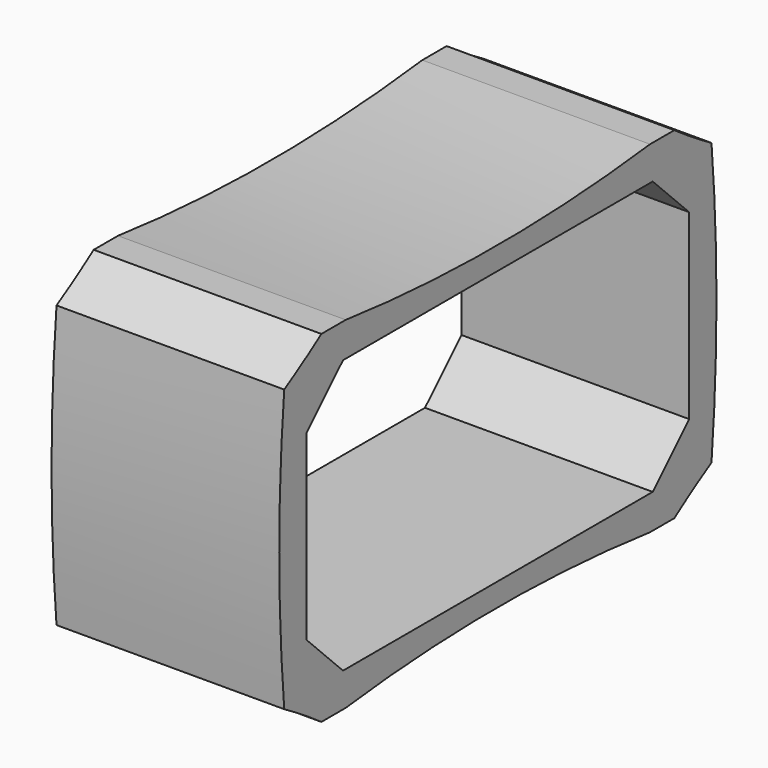
from build123d import *

# Parameters (mm, degrees)
BOX010_W          = 10
BOX010_H          = 21
BOX010_DEPTH      = 12
CHAMFER_SIZE      = 2
CYLINDER040_R     = 30
CYLINDER040_DEPTH = 10
CYLINDER039_R     = 30
CYLINDER039_DEPTH = 10
CYLINDER038_R     = 30
CYLINDER038_DEPTH = 10
CYLINDER036_R     = 30
CYLINDER036_DEPTH = 10
CYLINDER037_R     = 70
CYLINDER037_DEPTH = 10
CYLINDER035_R     = 70
CYLINDER035_DEPTH = 10
CYLINDER034_R     = 70
CYLINDER034_DEPTH = 10
CYLINDER033_R     = 70
CYLINDER033_DEPTH = 10
BOX009_W          = 10
BOX009_H          = 24
BOX009_DEPTH      = 15


with BuildPart() as chamfer_body:
    # Box010 → Box010 (new body)
    with BuildSketch(Plane(origin=(2, 12, 9), x_dir=(1, 0, 0), z_dir=(0, 0, 1))):
        with Locations((5, 10.5)):
            Rectangle(BOX010_W, BOX010_H)
    extrude(amount=BOX010_DEPTH)

    # Chamfer
    chamfer_edges = [chamfer_body.edges().sort_by_distance(p)[0] for p in [
        (7, 12, 9),
        (7, 12, 21),
        (7, 33, 9),
        (7, 33, 21),
    ]]
    chamfer(chamfer_edges, length=CHAMFER_SIZE)


with BuildPart() as cylinder040:
    # Cylinder040 → Cylinder040 (new body)
    with BuildSketch(Plane(origin=(22, -27, 39.5), x_dir=(0, 0, -1), z_dir=(1, 0, 0))):
        Circle(CYLINDER040_R)
    extrude(amount=CYLINDER040_DEPTH)


with BuildPart() as cylinder039:
    # Cylinder039 → Cylinder039 (new body)
    with BuildSketch(Plane(origin=(22, -27, -24.5), x_dir=(0, 0, -1), z_dir=(1, 0, 0))):
        Circle(CYLINDER039_R)
    extrude(amount=CYLINDER039_DEPTH)


with BuildPart() as cylinder038:
    # Cylinder038 → Cylinder038 (new body)
    with BuildSketch(Plane(origin=(22, 27, -24.5), x_dir=(0, 0, -1), z_dir=(1, 0, 0))):
        Circle(CYLINDER038_R)
    extrude(amount=CYLINDER038_DEPTH)


with BuildPart() as cylinder036:
    # Cylinder036 → Cylinder036 (new body)
    with BuildSketch(Plane(origin=(22, 27, 39.5), x_dir=(0, 0, -1), z_dir=(1, 0, 0))):
        Circle(CYLINDER036_R)
    extrude(amount=CYLINDER036_DEPTH)


with BuildPart() as cylinder037:
    # Cylinder037 → Cylinder037 (new body)
    with BuildSketch(Plane(origin=(22, -58, 7.5), x_dir=(0, 0, -1), z_dir=(1, 0, 0))):
        Circle(CYLINDER037_R)
    extrude(amount=CYLINDER037_DEPTH)


with BuildPart() as cylinder035:
    # Cylinder035 → Cylinder035 (new body)
    with BuildSketch(Plane(origin=(22, 58, 7.5), x_dir=(0, 0, -1), z_dir=(1, 0, 0))):
        Circle(CYLINDER035_R)
    extrude(amount=CYLINDER035_DEPTH)


with BuildPart() as cylinder034:
    # Cylinder034 → Cylinder034 (new body)
    with BuildSketch(Plane(origin=(22, 0, 84.5), x_dir=(0, 0, -1), z_dir=(1, 0, 0))):
        Circle(CYLINDER034_R)
    extrude(amount=CYLINDER034_DEPTH)


with BuildPart() as cylinder033:
    # Cylinder033 → Cylinder033 (new body)
    with BuildSketch(Plane(origin=(22, 0, -69.5), x_dir=(0, 0, -1), z_dir=(1, 0, 0))):
        Circle(CYLINDER033_R)
    extrude(amount=CYLINDER033_DEPTH)


with BuildPart() as cut028:
    # Box009 → Box009 (new body)
    with BuildSketch(Plane(origin=(22, -12, 0), x_dir=(1, 0, 0), z_dir=(0, 0, 1))):
        with Locations((5, 12)):
            Rectangle(BOX009_W, BOX009_H)
    extrude(amount=BOX009_DEPTH)

    # Cut021: cut Cylinder033
    add(cylinder033.part, mode=Mode.SUBTRACT)

    # Cut022: cut Cylinder034
    add(cylinder034.part, mode=Mode.SUBTRACT)

    # Common006: intersect Cylinder035
    add(cylinder035.part, mode=Mode.INTERSECT)

    # Common007: intersect Cylinder037
    add(cylinder037.part, mode=Mode.INTERSECT)

    # Cut023: cut Cylinder036
    add(cylinder036.part, mode=Mode.SUBTRACT)

    # Cut024: cut Cylinder038
    add(cylinder038.part, mode=Mode.SUBTRACT)

    # Cut025: cut Cylinder039
    add(cylinder039.part, mode=Mode.SUBTRACT)

    # Cut026: cut Cylinder040
    add(cylinder040.part, mode=Mode.SUBTRACT)


with BuildPart() as cut028_1:
    # Cut026 placement: moved
    add(cut028.part.moved(Location((-20, 22.5, 7.5))))

    # Cut028: cut Chamfer body
    add(chamfer_body.part, mode=Mode.SUBTRACT)


solid = cut028_1.part
